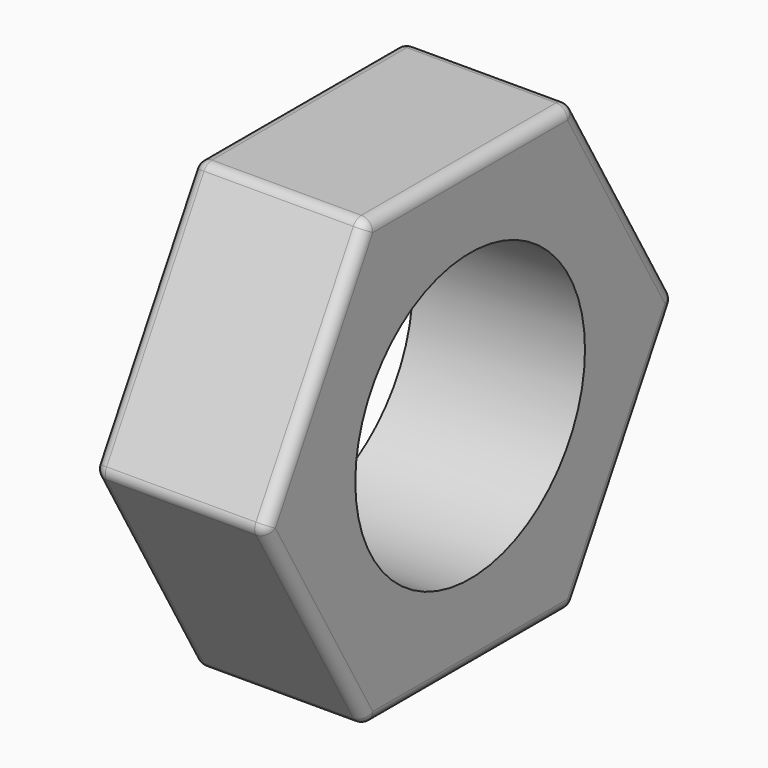
from build123d import *

# Parameters (mm, degrees)
F0_R     = 5
F1_DEPTH = 6
F2_R     = 0.4


with BuildPart() as f1:
    # F0 (on Right) → F1 (new body)
    with BuildSketch(Plane.YZ):
        Polygon((4.469955, 7.742188), (-4.469955, 7.742188), (-8.939909, 0), (-4.469955, -7.742188), (4.469955, -7.742188), (8.939909, 0), align=None)
        Circle(F0_R, mode=Mode.SUBTRACT)
    extrude(amount=-F1_DEPTH)

    # F2
    f2_edges = [f1.edges().sort_by_distance(p)[0] for p in [
        (-3, 4.469955, 7.742188),
        (-3, 8.939909, 0),
        (-3, 4.469955, -7.742188),
        (-3, -4.469955, -7.742188),
        (-3, -8.939909, 0),
        (0, -6.704932, -3.871094),
        (0, 0, -7.742188),
        (0, 6.704932, -3.871094),
        (0, 6.704932, 3.871094),
        (-6, 6.704932, 3.871094),
        (-6, 6.704932, -3.871094),
        (-6, 0, -7.742188),
        (-6, -6.704932, -3.871094),
        (-3, -4.469955, 7.742188),
        (0, -6.704932, 3.871094),
        (-6, -6.704932, 3.871094),
        (0, 0, 7.742188),
        (-6, 0, 7.742188),
    ]]
    fillet(f2_edges, radius=F2_R)


solid = f1.part
